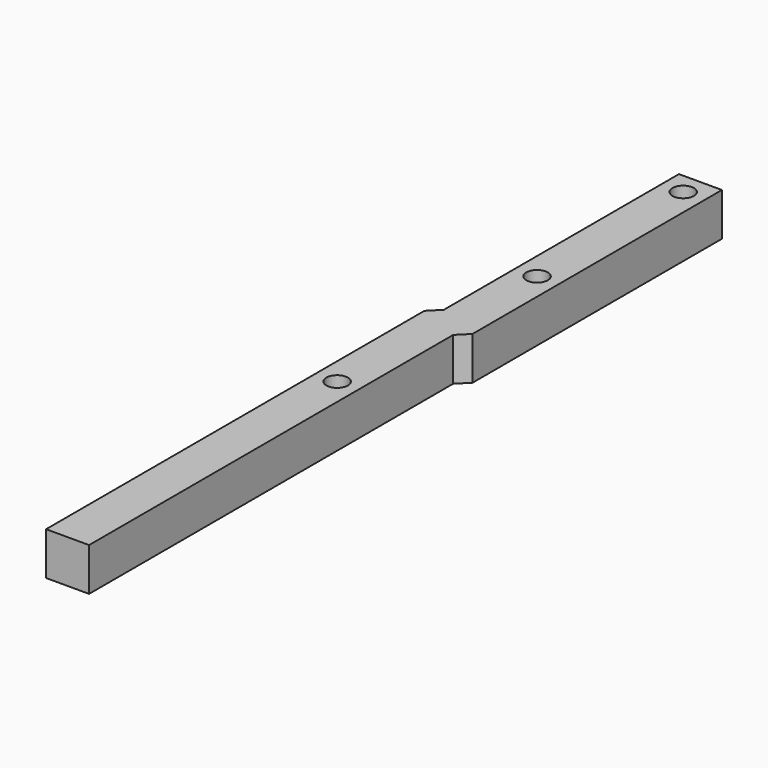
from build123d import *

# Parameters (mm, degrees)
F0_R     = 6.35
F1_DEPTH = 25.4


with BuildPart() as f1:
    # F0 (on Top) → F1 (new body)
    with BuildSketch(Plane.XY):
        Polygon((-20.480281, 0), (-20.480281, -279.4), (4.919719, -279.4), (4.919719, -10.521024), (11.269719, -4.171024), (11.269719, 180.03593), (-14.130281, 180.03593), (-14.130281, 6.35), align=None)
        with Locations((-7.780281, -80.31407)):
            Circle(F0_R, mode=Mode.SUBTRACT)
        with Locations((-1.430281, 59.38593)):
            Circle(F0_R, mode=Mode.SUBTRACT)
        with Locations((-1.430281, 167.33593)):
            Circle(F0_R, mode=Mode.SUBTRACT)
    extrude(amount=F1_DEPTH)


solid = f1.part
